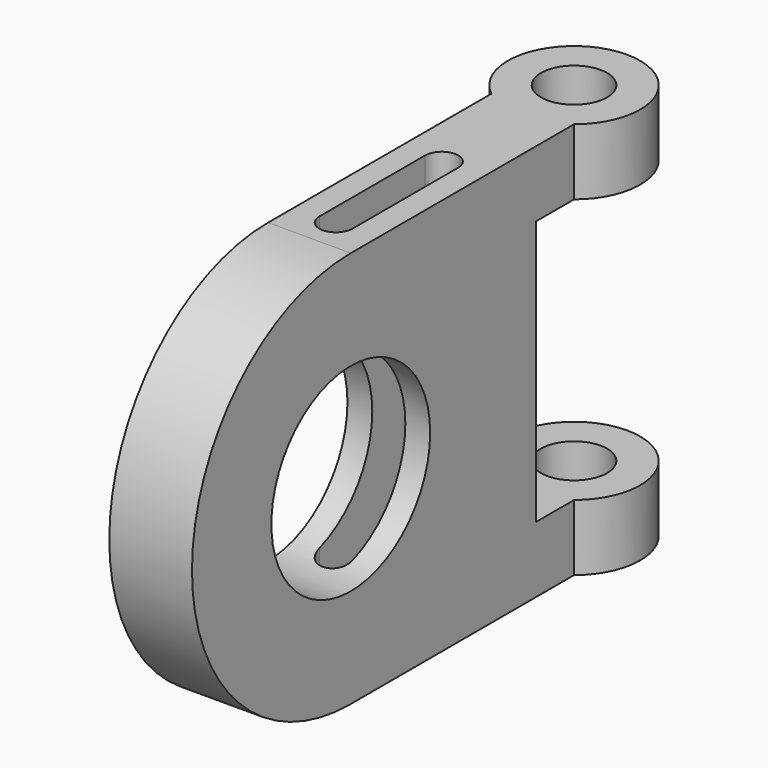
from build123d import *

# Parameters (mm, degrees)
F0_R          = 38.1
F1_DEPTH      = 15.875
F1_DEPTH_BACK = 15.875
F3_DEPTH      = 25.4
F4_DEPTH      = 25.4
F6_DEPTH      = 25.4
F7_R          = 12.7
F8_DEPTH      = 25.4
F10_DEPTH     = 152.4


with BuildPart() as f1:
    # F0 (on Right) → F1 (new body, two sides)
    with BuildSketch(Plane.YZ) as f1_sk:
        with BuildLine():
            Line((114.3, 76.2), (0, 76.2))
            ThreePointArc((0, 76.2), (-76.2, 0), (0, -76.2))
            Line((0, -76.2), (114.3, -76.2))
            Line((114.3, -76.2), (114.3, -50.8))
            Line((114.3, -50.8), (88.9, -50.8))
            Line((88.9, -50.8), (88.9, 50.8))
            Line((88.9, 50.8), (114.3, 50.8))
            Line((114.3, 50.8), (114.3, 76.2))
        make_face()
        Circle(F0_R, mode=Mode.SUBTRACT)
    extrude(amount=F1_DEPTH)
    extrude(f1_sk.sketch, amount=-F1_DEPTH_BACK)

    # F2 (on face) → F3 (join, through all)
    with BuildSketch(Plane.XY.offset(76.2)):
        with BuildLine():
            Line((15.875, 114.3), (15.875, 107.172131))
            ThreePointArc((15.875, 107.172131), (0, 152.4), (-15.875, 107.172131))
            Line((-15.875, 107.172131), (-15.875, 114.3))
            Line((-15.875, 114.3), (0, 114.3))
            Line((0, 114.3), (15.875, 114.3))
        make_face()
        with BuildLine():
            ThreePointArc((12.7, 127), (8.980256, 118.019744), (0, 114.3))
            ThreePointArc((0, 114.3), (-8.980256, 135.980256), (12.7, 127))
        make_face(mode=Mode.SUBTRACT)
        with BuildLine():
            ThreePointArc((12.7, 127), (-8.980256, 135.980256), (0, 114.3))
            ThreePointArc((0, 114.3), (8.980256, 118.019744), (12.7, 127))
        make_face()
    extrude(amount=-F3_DEPTH)

    # F2 (on face) → F4 (cut, through all)
    with BuildSketch(Plane.XY.offset(76.2)):
        with BuildLine():
            ThreePointArc((12.7, 127), (-8.980256, 135.980256), (0, 114.3))
            ThreePointArc((0, 114.3), (8.980256, 118.019744), (12.7, 127))
        make_face()
    extrude(amount=-F4_DEPTH, mode=Mode.SUBTRACT)

    # F5 (on face) → F6 (join, through all)
    with BuildSketch(Plane.XY.offset(-50.8)):
        with BuildLine():
            Line((15.875, 114.3), (15.875, 107.172131))
            ThreePointArc((15.875, 107.172131), (0, 152.4), (-15.875, 107.172131))
            Line((-15.875, 107.172131), (-15.875, 114.3))
            Line((-15.875, 114.3), (15.875, 114.3))
        make_face()
    extrude(amount=-F6_DEPTH)

    # F7 (on face) → F8 (cut, through all)
    with BuildSketch(Plane.XY.offset(-50.8)):
        with Locations((0, 127)):
            Circle(F7_R)
    extrude(amount=-F8_DEPTH, mode=Mode.SUBTRACT)

    # F9 (on face) → F10 (cut, through all)
    with BuildSketch(Plane.XY.offset(76.2)):
        with BuildLine():
            Line((6.35, 12.7), (6.35, 63.5))
            ThreePointArc((6.35, 63.5), (0, 69.85), (-6.35, 63.5))
            Line((-6.35, 63.5), (-6.35, 12.7))
            ThreePointArc((-6.35, 12.7), (0, 6.35), (6.35, 12.7))
        make_face()
    extrude(amount=-F10_DEPTH, mode=Mode.SUBTRACT)


solid = f1.part
